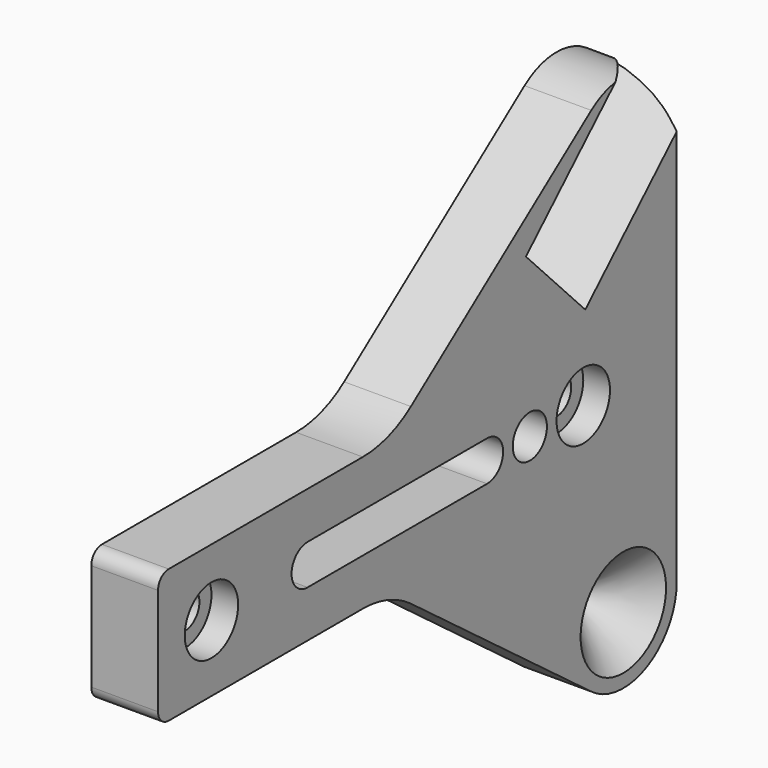
from build123d import *

# Parameters (mm, degrees)
SKETCH_W           = 89.59788
SKETCH_H           = 20
PAD_DEPTH          = 10
SKETCH001_W        = 4
SKETCH001_H        = 19
PAD001_DEPTH       = 3
HOLE_D             = 5.5
HOLE_DEPTH         = 25
HOLE_CBORE_D       = 10
HOLE_CBORE_DEPTH   = 4
FILLET_R           = 2
SKETCH003_R        = 3.2
POCKET_DEPTH       = 13.001
SKETCH004_R        = 0.5
PAD002_DEPTH       = 10
POCKET001_DEPTH    = 17.5
FILLET001_R        = 15
POCKET002_DEPTH    = 3
POCKET002_FACE32_W = 4
POCKET002_FACE32_H = 19
POCKET003_DEPTH    = 3


with BuildPart() as part:
    # Sketch (on Face2 of Binder) → Pad (new body)
    with BuildSketch(Plane.YZ.offset(237.459106)):
        with Locations((0.426081, 189.84877)):
            Rectangle(SKETCH_W, SKETCH_H)
        with BuildLine():
            ThreePointArc((-16.372859, 192.857809), (-19.372859, 189.857809), (-16.372859, 186.857809))
            Line((-16.372859, 186.857809), (17.225021, 186.857809))
            ThreePointArc((17.225021, 186.857809), (20.225021, 189.857809), (17.225021, 192.857809))
            Line((-16.372859, 192.857809), (17.225021, 192.857809))
        make_face(mode=Mode.SUBTRACT)
    extrude(amount=PAD_DEPTH)

    # Sketch001 (on Face9 of Pad) → Pad001 (join)
    with BuildSketch(Plane(origin=(237.459106, 0, 0), x_dir=(0, -1, 0), z_dir=(-1, 0, 0))):
        with Locations((-23.225021, 189.84877)):
            Rectangle(SKETCH001_W, SKETCH001_H)
        with Locations((22.372859, 189.857809)):
            Rectangle(SKETCH001_W, SKETCH001_H)
    extrude(amount=PAD001_DEPTH)

    # Hole
    with Locations(Plane.YZ.offset(247.459106)):
        with Locations((-34.372859, 189.857809), (35.225021, 189.84877)):
            CounterBoreHole(HOLE_D / 2, HOLE_CBORE_D / 2, HOLE_CBORE_DEPTH, depth=HOLE_DEPTH)

    # Fillet
    fillet_edges = [part.edges().sort_by_distance(p)[0] for p in [
        (242.459106, 45.225021, 199.84877),
        (242.459106, 45.225021, 179.84877),
        (242.459106, -44.372859, 199.84877),
        (242.459106, -44.372859, 179.84877),
    ]]
    fillet(fillet_edges, radius=FILLET_R)

    # Sketch003 (on Face5 of Fillet) → Pocket (cut, through all)
    with BuildSketch(Plane.YZ.offset(247.459106)):
        with Locations((25.225021, 189.84877)):
            Circle(SKETCH003_R)
    extrude(amount=-POCKET_DEPTH, mode=Mode.SUBTRACT)

    # Sketch004 (on Face5 of Pocket) → Pad002 (join)
    with BuildSketch(Plane.YZ.offset(247.459106)):
        with BuildLine():
            ThreePointArc((52.725021, 220.159659), (47.198029, 229.103495), (36.726581, 228.160829))
            Line((36.726581, 228.160829), (-1.038162, 199.84877))
            Line((43.225021, 199.84877), (-1.038162, 199.84877))
            Line((43.225021, 179.84877), (43.225021, 199.84877))
            Line((-1.038162, 179.84877), (43.225021, 179.84877))
            Line((-1.038162, 179.84877), (36.726581, 151.536712))
            ThreePointArc((36.726581, 151.536712), (47.198029, 150.594045), (52.725021, 159.537881))
            Line((52.725021, 159.537881), (52.725021, 220.159659))
        make_face()
        with Locations((42.725021, 220.159659)):
            Circle(SKETCH004_R, mode=Mode.SUBTRACT)
        with Locations((42.725021, 159.537881)):
            Circle(SKETCH004_R, mode=Mode.SUBTRACT)
    extrude(amount=-PAD002_DEPTH)

    # Sketch005 (on DatumPlane) → Groove (revolve, cut)
    with BuildSketch(Plane(origin=(247.459106, 42.725021, 159.537881), x_dir=(0, 0, 1), z_dir=(0, 1, 0))):
        Polygon((0, 21.851335), (0, -8), (-29.851335, 21.851335), align=None)
    revolve(axis=Axis((247.459106, 42.725021, 159.537881), (1, 0, 0)), mode=Mode.SUBTRACT)

    # Sketch006 (on DatumPlane) → Pocket001 (cut, symmetric)
    with BuildSketch(Plane(origin=(247.459106, 42.725021, 220.159659), x_dir=(0, -0.694658, 0.71934), z_dir=(0, 0.71934, 0.694658))):
        Polygon((0, -8), (12.395839, 4.192451), (-11.9924, 4.192451), align=None)
    extrude(amount=POCKET001_DEPTH, both=True, mode=Mode.SUBTRACT)

    # Fillet001
    fillet001_edges = [part.edges().sort_by_distance(p)[0] for p in [
        (242.459106, -1.038162, 179.84877),
        (242.459106, -1.038162, 199.84877),
    ]]
    fillet(fillet001_edges, radius=FILLET001_R)

    # Fillet001 Face36 → Pocket002 (cut)
    with BuildSketch(Plane(origin=(234.459106, 23.052701, 189.84877), x_dir=(0, 1, 0), z_dir=(-1, 0, 0))):
        with BuildLine():
            Line((2.17232, -9.5), (2.17232, -3.2))
            ThreePointArc((2.17232, -3.2), (-1.02768, 0), (2.17232, 3.2))
            Line((2.17232, 3.2), (2.17232, 9.5))
            Line((2.17232, 9.5), (-1.82768, 9.5))
            Line((-1.82768, 9.5), (-1.82768, -9.5))
            Line((-1.82768, -9.5), (2.17232, -9.5))
        make_face()
    extrude(amount=-POCKET002_DEPTH, mode=Mode.SUBTRACT)

    # Pocket002 Face32 → Pocket003 (cut)
    with BuildSketch(Plane(origin=(234.459106, -22.372859, 189.857809), x_dir=(0, 1, 0), z_dir=(-1, 0, 0))):
        Rectangle(POCKET002_FACE32_W, POCKET002_FACE32_H)
    extrude(amount=-POCKET003_DEPTH, mode=Mode.SUBTRACT)


with BuildPart() as part_1:
    # Body placement: moved
    add(part.part.moved(Location((-253.7, 0, -183.9))))


solid = part_1.part
